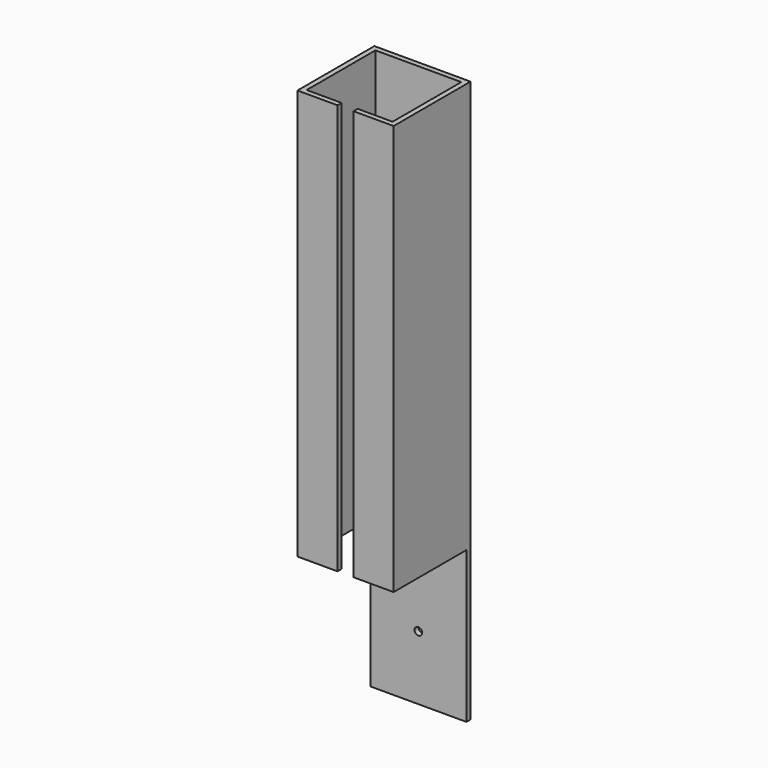
from build123d import *

# Parameters (mm, degrees)
F0_W     = 19.05
F0_H     = 19.05
F0_W_2   = 17.018
F0_H_2   = 17.018
F1_DEPTH = 111.252
F2_W     = 3.175
F2_H     = 111.252
F3_DEPTH = 1.016
F4_W     = 18.034
F4_H     = 29.972
F5_DEPTH = 19.051
F6_R     = 0.75057
F7_DEPTH = 19.051


with BuildPart() as f1:
    # F0 (on Top) → F1 (new body)
    with BuildSketch(Plane.XY):
        Rectangle(F0_W, F0_H)
        Rectangle(F0_W_2, F0_H_2, mode=Mode.SUBTRACT)
    extrude(amount=F1_DEPTH)

    # F2 (on face) → F3 (cut, through all)
    with BuildSketch(Plane.XZ.offset(9.525)):
        with Locations((0, 55.626)):
            Rectangle(F2_W, F2_H)
    extrude(amount=-F3_DEPTH, mode=Mode.SUBTRACT)

    # F4 (on face) → F5 (cut, through all)
    with BuildSketch(Plane.YZ.offset(9.525)):
        with Locations((-0.508, 14.986)):
            Rectangle(F4_W, F4_H)
    extrude(amount=-F5_DEPTH, mode=Mode.SUBTRACT)

    # F6 (on face) → F7 (cut, through all)
    with BuildSketch(Plane(origin=(0, 9.525, 0), x_dir=(-1, 0, 0), z_dir=(0, 1, 0))):
        with Locations((0, 12.7)):
            Circle(F6_R)
    extrude(amount=-F7_DEPTH, mode=Mode.SUBTRACT)


solid = f1.part
